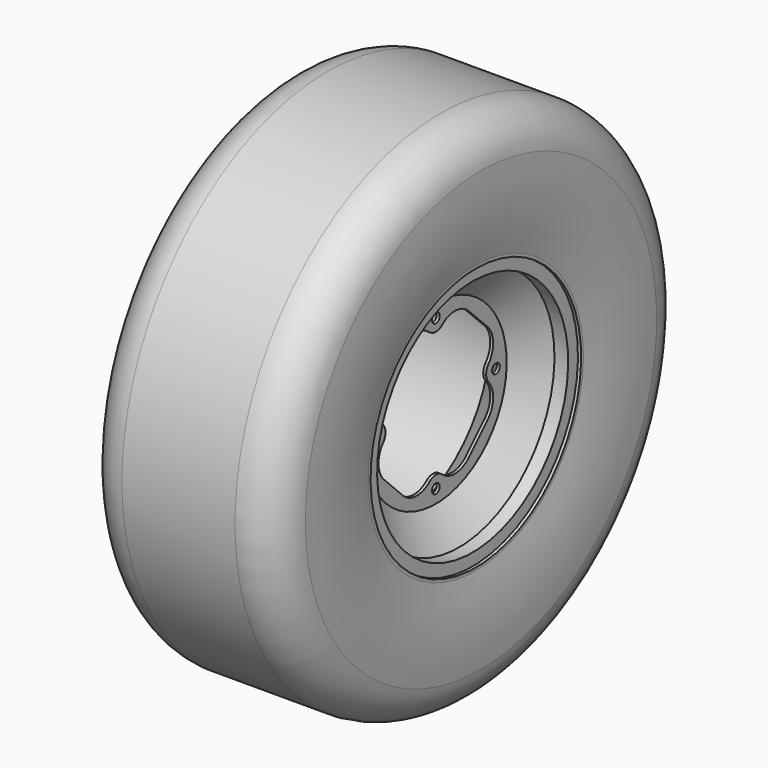
from build123d import *

# Parameters (mm, degrees)
F3_R     = 5
F4_DEPTH = 148.972


with BuildPart() as f1:
    # F0 (on Front) → F1 (revolve)
    with BuildSketch(Plane.XZ):
        Polygon((-141.097, 127), (-141.097, 139.7), (-147.447, 139.7), (-147.447, 136.652), (-144.145, 136.652), (-144.145, 123.952), (-40.586184, 123.952), (-1.524, 91.948), (-1.524, 0), (1.524, 0), (1.524, 91.948), (25.527, 123.952), (39.751, 123.952), (39.751, 136.652), (43.053, 136.652), (43.053, 139.7), (36.703, 139.7), (36.703, 127), (24.003, 127), (0, 94.996), (-0.434816, 94.996), (-39.497, 127), align=None)
    revolve(axis=Axis((0, 0, 0), (-1, 0, 0)))

    # F3 (on face) → F4 (cut, through all)
    with BuildSketch(Plane.YZ.offset(1.524)):
        with Locations((0, 78)):
            Circle(F3_R)
        with BuildLine():
            ThreePointArc((8.23834, 68.33461), (4.389735, 66.082776), (0, 65.3))
            ThreePointArc((0, 65.3), (-4.389735, 66.082776), (-8.23834, 68.33461))
            ThreePointArc((-8.23834, 68.33461), (-25.724895, 74.383747), (-42.675532, 66.964343))
            Line((-42.675532, 66.964343), (-66.964343, 42.675532))
            ThreePointArc((-66.964343, 42.675532), (-74.383747, 25.724895), (-68.33461, 8.23834))
            ThreePointArc((-68.33461, 8.23834), (-66.082776, 4.389735), (-65.3, 0))
            ThreePointArc((-65.3, 0), (-66.082776, -4.389735), (-68.33461, -8.23834))
            ThreePointArc((-68.33461, -8.23834), (-74.383747, -25.724895), (-66.964343, -42.675532))
            Line((-66.964343, -42.675532), (-42.675532, -66.964343))
            ThreePointArc((-42.675532, -66.964343), (-25.724895, -74.383747), (-8.23834, -68.33461))
            ThreePointArc((-8.23834, -68.33461), (-4.389735, -66.082776), (0, -65.3))
            ThreePointArc((0, -65.3), (4.389735, -66.082776), (8.23834, -68.33461))
            ThreePointArc((8.23834, -68.33461), (25.724895, -74.383747), (42.675532, -66.964343))
            Line((42.675532, -66.964343), (66.964343, -42.675532))
            ThreePointArc((66.964343, -42.675532), (74.383747, -25.724895), (68.33461, -8.23834))
            ThreePointArc((68.33461, -8.23834), (66.082776, -4.389735), (65.3, 0))
            ThreePointArc((65.3, 0), (66.082776, 4.389735), (68.33461, 8.23834))
            ThreePointArc((68.33461, 8.23834), (74.383747, 25.724895), (66.964343, 42.675532))
            Line((66.964343, 42.675532), (42.675532, 66.964343))
            ThreePointArc((42.675532, 66.964343), (25.724895, 74.383747), (8.23834, 68.33461))
        make_face()
        with Locations((-78, 0)):
            Circle(F3_R)
        with Locations((0, -78)):
            Circle(F3_R)
        with Locations((78, 0)):
            Circle(F3_R)
    extrude(amount=-F4_DEPTH, mode=Mode.SUBTRACT)


with BuildPart() as f5:
    # F2 (on Front) → F5 (revolve)
    with BuildSketch(Plane.XZ):
        with BuildLine():
            Line((-141.097, 139.7), (-141.097, 127))
            Line((-141.097, 127), (-134.747, 127))
            Line((-134.747, 127), (-134.747, 146.05))
            Line((-134.747, 146.05), (-142.212092, 146.05))
            ThreePointArc((-142.212092, 146.05), (-146.949013, 185.317888), (-146.673526, 224.869494))
            ThreePointArc((-146.673526, 224.869494), (-138.935461, 241.072042), (-122.228258, 247.65))
            Line((-122.228258, 247.65), (-53.00985, 247.65))
            Line((-53.00985, 247.65), (-51.38415, 247.65))
            Line((-51.38415, 247.65), (17.834258, 247.65))
            ThreePointArc((17.834258, 247.65), (34.541461, 241.072042), (42.279526, 224.869494))
            ThreePointArc((42.279526, 224.869494), (42.555013, 185.317888), (37.818092, 146.05))
            Line((37.818092, 146.05), (30.353, 146.05))
            Line((30.353, 146.05), (30.353, 127))
            Line((30.353, 127), (36.703, 127))
            Line((36.703, 127), (36.703, 139.7))
            Line((36.703, 139.7), (43.053, 139.7))
            ThreePointArc((43.053, 139.7), (48.816518, 183.624611), (48.418937, 227.923952))
            ThreePointArc((48.418937, 227.923952), (35.029252, 255.521323), (6.464662, 266.7))
            Line((6.464662, 266.7), (-52.197, 266.7))
            Line((-52.197, 266.7), (-110.858662, 266.7))
            ThreePointArc((-110.858662, 266.7), (-139.423252, 255.521323), (-152.812937, 227.923952))
            ThreePointArc((-152.812937, 227.923952), (-153.210518, 183.624611), (-147.447, 139.7))
            Line((-147.447, 139.7), (-141.097, 139.7))
        make_face()
    revolve(axis=Axis((-52.197, 0, 0), (-1, 0, 0)))


solid = Compound([f1.part, f5.part])
